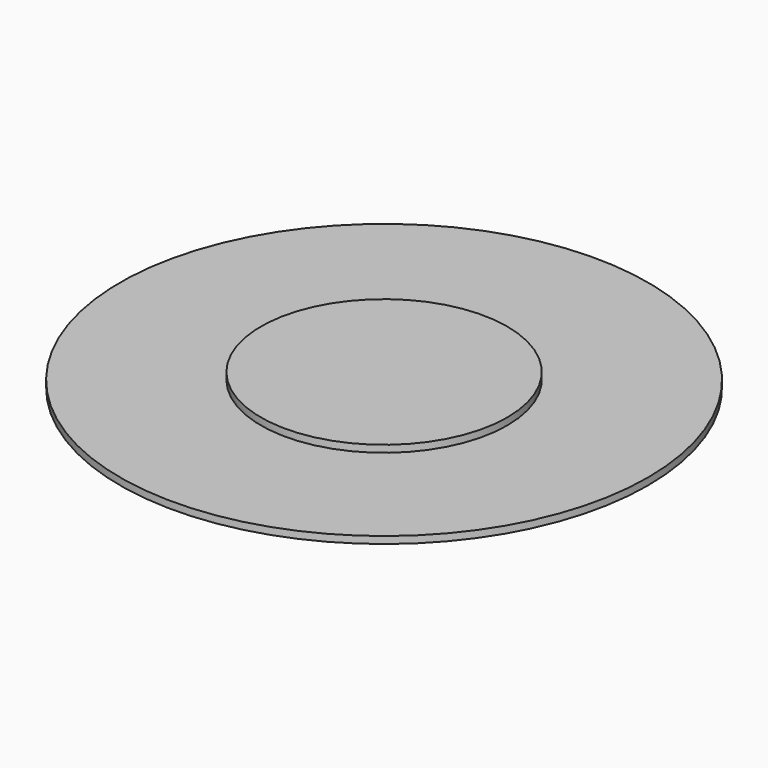
from build123d import *

# Parameters (mm, degrees)
SKETCH_R     = 37.5
PAD_DEPTH    = 1
SKETCH001_R  = 17.5
PAD001_DEPTH = 1


with BuildPart() as part:
    # Sketch → Pad (new body)
    with BuildSketch(Plane.XY):
        Circle(SKETCH_R)
    extrude(amount=PAD_DEPTH)

    # Sketch001 (on Face3 of Pad) → Pad001 (join)
    with BuildSketch(Plane.XY.offset(1)):
        Circle(SKETCH001_R)
    extrude(amount=PAD001_DEPTH)


solid = part.part
